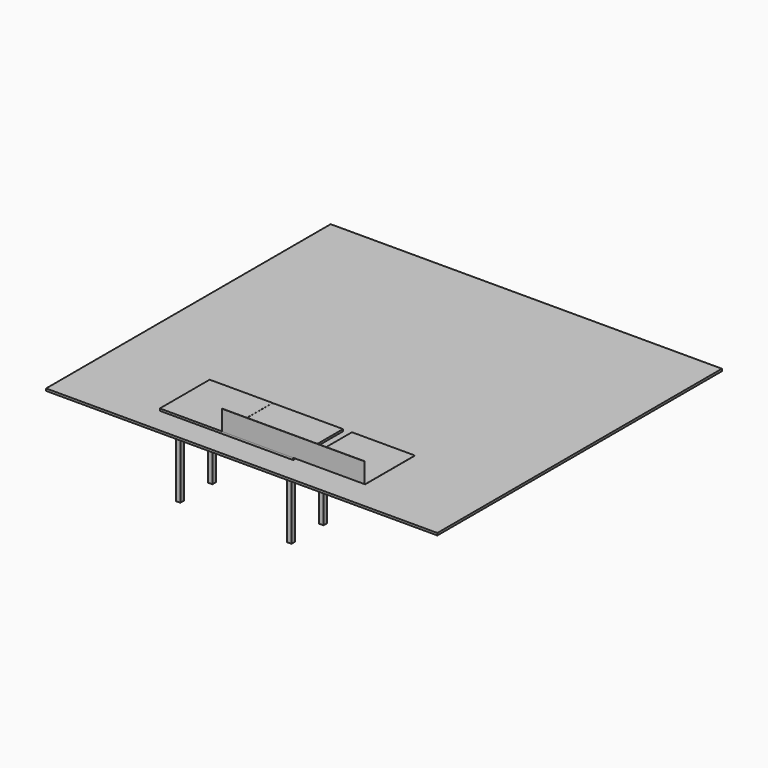
from build123d import *

# Parameters (mm, degrees)
F0_W      = 700
F0_H      = 1500
F1_DEPTH  = 25
F2_W      = 50
F2_H      = 50
F3_DEPTH  = 900
F4_ANGLE  = 90
F5_W      = 4400
F5_H      = 4000
F6_DEPTH  = 25
F7_W      = 1600
F7_H      = 3
F8_DEPTH  = 225
F9_W      = 708.5193991661
F9_H      = 700
F10_DEPTH = 1


with BuildPart() as f1:
    # F0 (on Right) → F1 (new body)
    with BuildSketch(Plane.YZ):
        with Locations((307.1302086115, 772.9853857309)):
            Rectangle(F0_W, F0_H)
    extrude(amount=F1_DEPTH)

    # F2 (on face) → F3 (join)
    with BuildSketch(Plane(origin=(0, 0, 0), x_dir=(0, -1, 0), z_dir=(-1, 0, 0))):
        with Locations((-82.1302086115, 1397.9853857309)):
            Rectangle(F2_W, F2_H)
        with Locations((-532.1302086115, 1397.9853857309)):
            Rectangle(F2_W, F2_H)
        with Locations((-82.1302086115, 147.9853857309)):
            Rectangle(F2_W, F2_H)
        with Locations((-532.1302086115, 147.9853857309)):
            Rectangle(F2_W, F2_H)
    extrude(amount=F3_DEPTH)


with BuildPart() as f1_1:
    # F4: moved
    add(f1.part.rotate(Axis((0, 307.1302086115, 22.9853857309), (0, -1, 0)), F4_ANGLE))


with BuildPart() as f6:
    # F5 (on Top) → F6 (new body)
    with BuildSketch(Plane.XY):
        with Locations((-346.4490354061, 1665.9961640835)):
            Rectangle(F5_W, F5_H)
    extrude(amount=F6_DEPTH)


with BuildPart() as f8:
    # F7 (on face) → F8 (new body)
    with BuildSketch(Plane.XY.offset(47.9853857309)):
        with Locations((0, -41.3697913885)):
            Rectangle(F7_W, F7_H)
    extrude(amount=F8_DEPTH)


with BuildPart() as f10:
    # F9 (on face) → F10 (new body)
    with BuildSketch(Plane.XY.offset(47.9853857309)):
        with Locations((-1145.7403004169, 307.1302086115)):
            Rectangle(F9_W, F9_H)
    extrude(amount=F10_DEPTH)


with BuildPart() as f11_1:
    # F11: copy of F10
    add(f10.part.moved(Location((1600, 0, 0))))


solid = Compound([f1_1.part, f6.part, f8.part, f10.part, f11_1.part])
